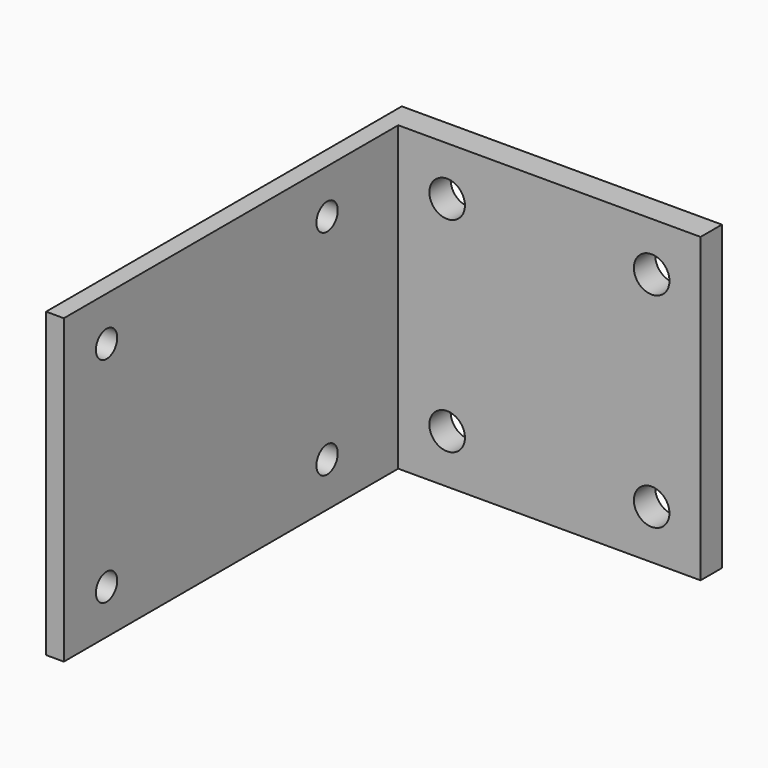
from build123d import *

# Parameters (mm, degrees)
F0_W     = 34
F0_H     = 34
F0_R     = 2
F1_DEPTH = 3
F2_R     = 1.5
F3_DEPTH = 2


with BuildPart() as f1:
    # F0 (on Front) → F1 (new body)
    with BuildSketch(Plane.XZ):
        Rectangle(F0_W, F0_H)
        with Locations((-11.5, -11.5)):
            Circle(F0_R, mode=Mode.SUBTRACT)
        with Locations((11.5, -11.5)):
            Circle(F0_R, mode=Mode.SUBTRACT)
        with Locations((-11.5, 11.5)):
            Circle(F0_R, mode=Mode.SUBTRACT)
        with Locations((11.5, 11.5)):
            Circle(F0_R, mode=Mode.SUBTRACT)
    extrude(amount=F1_DEPTH)

    # F2 (on face) → F3 (join)
    with BuildSketch(Plane(origin=(-17, 0, 0), x_dir=(0, -1, 0), z_dir=(-1, 0, 0))):
        Polygon((28.5, 17), (0, 17), (0, -17), (28.5, -17), (28.5, 0), align=None)
        with Locations((13, -12.021406)):
            Circle(F2_R, mode=Mode.SUBTRACT)
        with Locations((13, 12.021406)):
            Circle(F2_R, mode=Mode.SUBTRACT)
        Polygon((50, 17), (28.5, 17), (28.5, 0), (28.5, -17), (50, -17), align=None)
        with Locations((44, -12.021406)):
            Circle(F2_R, mode=Mode.SUBTRACT)
        with Locations((44, 12.021406)):
            Circle(F2_R, mode=Mode.SUBTRACT)
    extrude(amount=F3_DEPTH)


solid = f1.part
